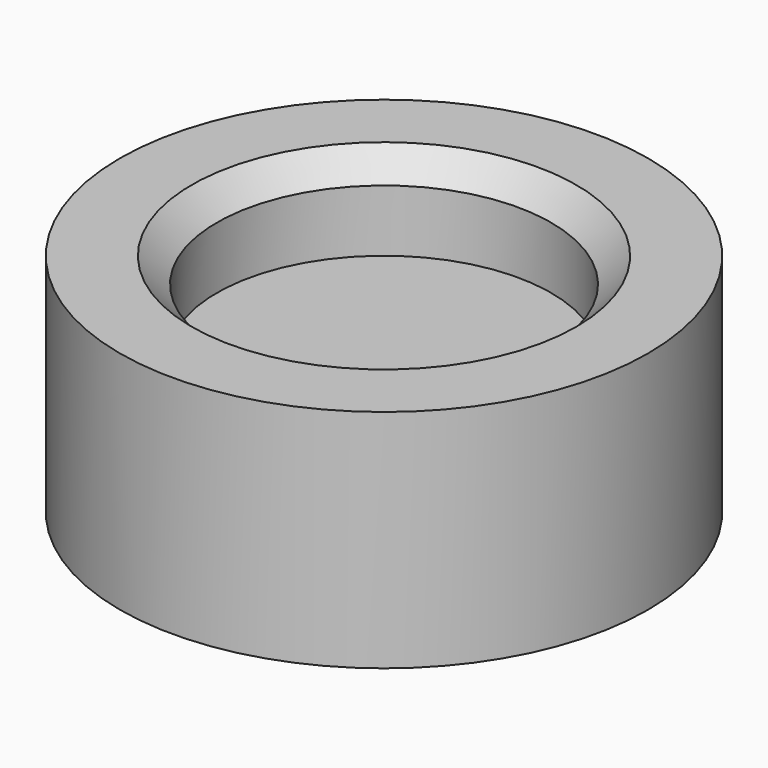
from build123d import *

# Parameters (mm, degrees)
F2_W     = 7.75
F2_H     = 1.55
F3_DEPTH = 1.72
F4_SIZE  = 0.75


with BuildPart() as f1:
    # F0 (on Front) → F1 (revolve)
    with BuildSketch(Plane.XZ):
        Polygon((0, 4.15), (0, 0), (5, 0), (7.9, 0), (7.9, 4.15), (7.9, 6.75), (5, 6.75), (5, 4.15), align=None)
    revolve(axis=Axis((0, 0, 2.075), (0, 0, 1)))

    # F2 (on face) → F3 (cut)
    with BuildSketch(Plane(origin=(0, 0, 0), x_dir=(1, 0, 0), z_dir=(0, 0, -1))):
        Rectangle(F2_W, F2_H)
    extrude(amount=-F3_DEPTH, mode=Mode.SUBTRACT)

    # F4
    f4_edges = [f1.edges().sort_by_distance(p)[0] for p in [
        (-5, 0, 6.75),
    ]]
    chamfer(f4_edges, length=F4_SIZE)


solid = f1.part
